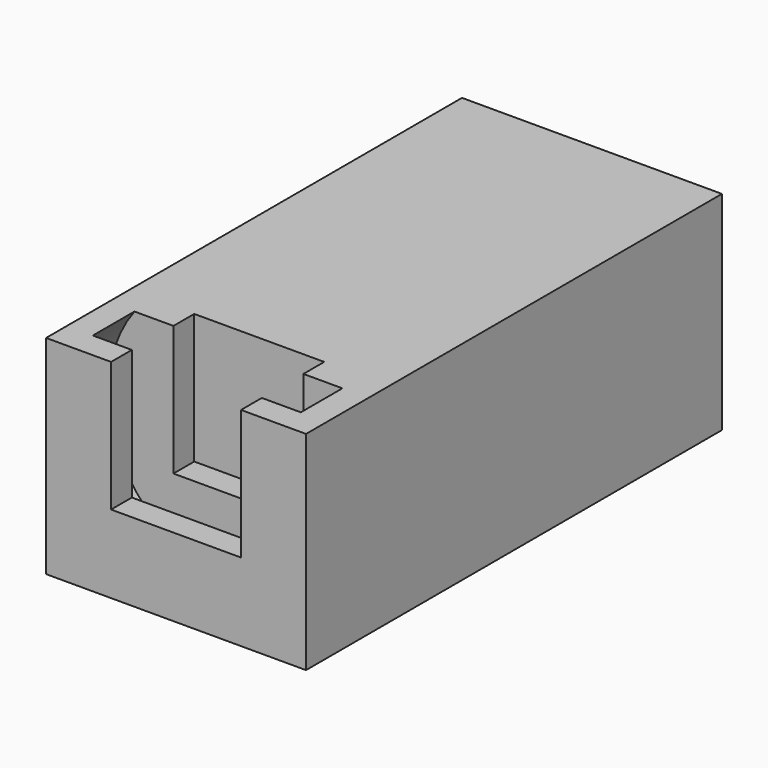
from build123d import *

# Parameters (mm, degrees)
BOX002_W            = 5
BOX002_H            = 1
BOX002_DEPTH        = 5
BOX001_W            = 5
BOX001_H            = 1
BOX001_DEPTH        = 5
CYLINDER_R          = 5
CYLINDER_DEPTH      = 2
CYLINDER_ROLL_ANGLE = 90
BOX_W               = 10
BOX_H               = 20
BOX_DEPTH           = 8


with BuildPart() as interior_opening:
    # Box002 → Box002 (new body)
    with BuildSketch(Plane(origin=(2.5, 3, 3), x_dir=(1, 0, 0), z_dir=(0, 0, 1))):
        with Locations((2.5, 0.5)):
            Rectangle(BOX002_W, BOX002_H)
    extrude(amount=BOX002_DEPTH)


with BuildPart() as end_opening:
    # Box001 → Box001 (new body)
    with BuildSketch(Plane(origin=(2.5, 0, 3), x_dir=(1, 0, 0), z_dir=(0, 0, 1))):
        with Locations((2.5, 0.5)):
            Rectangle(BOX001_W, BOX001_H)
    extrude(amount=BOX001_DEPTH)


with BuildPart() as solenoid_head_slot:
    # Cylinder → Cylinder (new body)
    with BuildSketch(Plane.XY):
        Circle(CYLINDER_R)
    extrude(amount=CYLINDER_DEPTH)


with BuildPart() as solenoid_head_slot_1:
    # Cylinder roll: moved
    add(solenoid_head_slot.part.rotate(Axis((0, 0, 0), (1, 0, 0)), CYLINDER_ROLL_ANGLE))


with BuildPart() as solenoid_head_slot_2:
    # Cylinder placement: moved
    add(solenoid_head_slot_1.part.moved(Location((5, 3, 5))))


with BuildPart() as cut002:
    # Box → Box (new body)
    with BuildSketch(Plane.XY):
        with Locations((5, 10)):
            Rectangle(BOX_W, BOX_H)
    extrude(amount=BOX_DEPTH)

    # Cut: cut solenoid_head_slot
    add(solenoid_head_slot_2.part, mode=Mode.SUBTRACT)

    # Cut001: cut end_opening
    add(end_opening.part, mode=Mode.SUBTRACT)

    # Cut002: cut interior_opening
    add(interior_opening.part, mode=Mode.SUBTRACT)


solid = cut002.part
